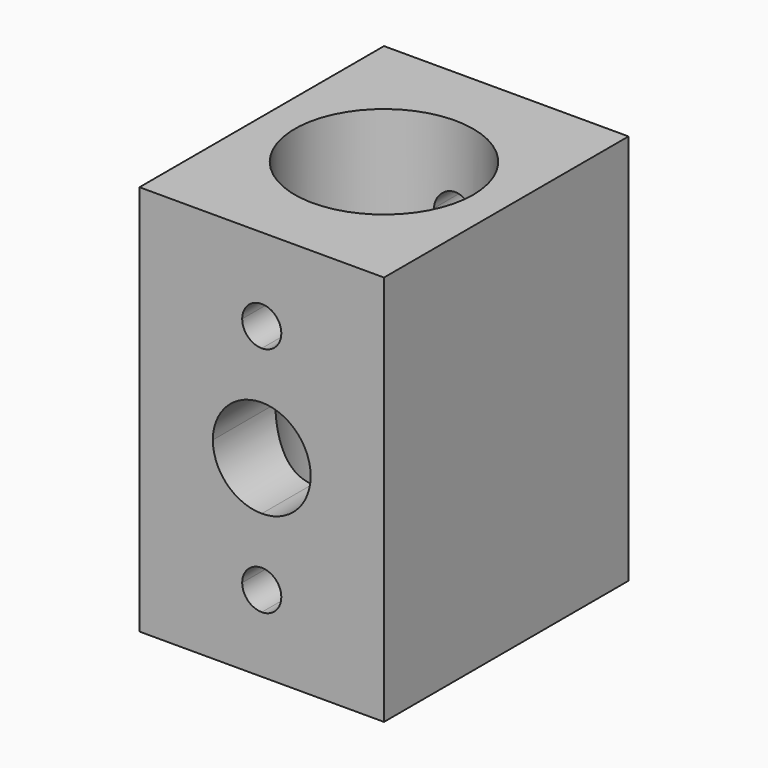
from build123d import *

# Parameters (mm, degrees)
F0_W     = 20
F0_H     = 25
F0_R     = 7.3
F1_DEPTH = 30
F4_DEPTH = 25.001
F5_W     = 20
F5_H     = 25
F6_DEPTH = 2


with BuildPart() as f1:
    # F0 (on Top) → F1 (new body)
    with BuildSketch(Plane.XY):
        Rectangle(F0_W, F0_H)
        Circle(F0_R, mode=Mode.SUBTRACT)
    extrude(amount=F1_DEPTH)

    # F3 (on face) → F4 (cut, through all)
    with BuildSketch(Plane(origin=(0, 12.5, 0), x_dir=(-1, 0, 0), z_dir=(0, 1, 0))):
        with BuildLine():
            ThreePointArc((0, 5.85), (-1.6, 4.25), (0, 2.65))
            Line((0, 2.65), (0, 4.25))
            Line((0, 4.25), (0, 5.85))
        make_face()
        with BuildLine():
            ThreePointArc((1.6, 23.25), (-1.1313708499, 24.3813708499), (0, 21.65))
            ThreePointArc((0, 21.65), (1.1313708499, 22.1186291501), (1.6, 23.25))
        make_face()
        with BuildLine():
            ThreePointArc((0, 17.75), (-4, 13.75), (0, 9.75))
            Line((0, 9.75), (0, 17.75))
        make_face()
        with BuildLine():
            Line((0, 17.75), (0, 9.75))
            ThreePointArc((0, 9.75), (2.8284271247, 10.9215728753), (4, 13.75))
            ThreePointArc((4, 13.75), (2.8284271247, 16.5784271247), (0, 17.75))
        make_face()
        with BuildLine():
            Line((0, 4.25), (0, 2.65))
            ThreePointArc((0, 2.65), (1.1313708499, 3.1186291501), (1.6, 4.25))
            ThreePointArc((1.6, 4.25), (1.1313708499, 5.3813708499), (0, 5.85))
            Line((0, 5.85), (0, 4.25))
        make_face()
    extrude(amount=-F4_DEPTH, mode=Mode.SUBTRACT)

    # F5 (on face) → F6 (join)
    with BuildSketch(Plane(origin=(0, 0, 0), x_dir=(1, 0, 0), z_dir=(0, 0, -1))):
        Rectangle(F5_W, F5_H)
    extrude(amount=F6_DEPTH)


solid = f1.part
